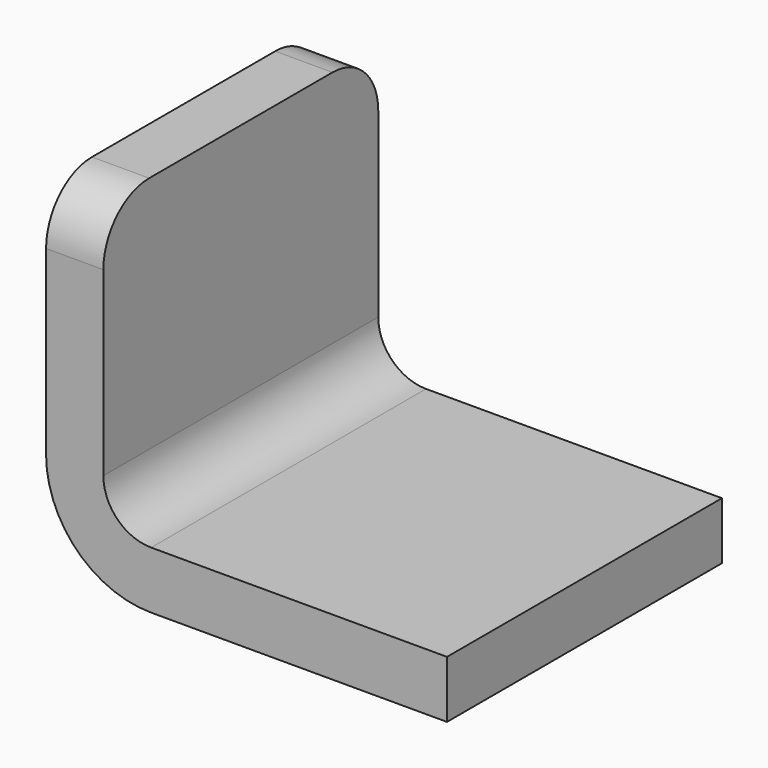
from build123d import *

# Parameters (mm, degrees)
F1_DEPTH = 18
F2_R     = 3


with BuildPart() as f1:
    # F0 (on Front) → F1 (new body)
    with BuildSketch(Plane.XZ):
        with BuildLine():
            ThreePointArc((0, 5.5), (1.610913, 1.610913), (5.5, 0))
            Line((5.5, 0), (21, 0))
            Line((21, 0), (21, 3))
            Line((21, 3), (5.5, 3))
            ThreePointArc((5.5, 3), (3.732233, 3.732233), (3, 5.5))
            Line((3, 5.5), (3, 18))
            Line((3, 18), (0, 18))
            Line((0, 18), (0, 5.5))
        make_face()
    extrude(amount=F1_DEPTH)

    # F2
    f2_edges = [f1.edges().sort_by_distance(p)[0] for p in [
        (1.5, -18, 18),
        (1.5, 0, 18),
    ]]
    fillet(f2_edges, radius=F2_R)


solid = f1.part
